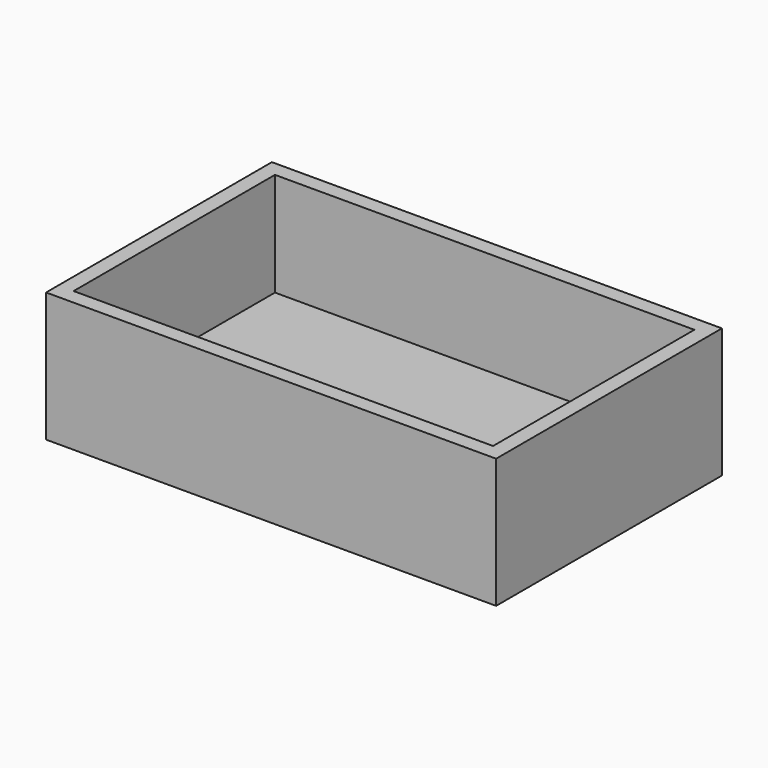
from build123d import *

# Parameters (mm, degrees)
F0_W     = 88.2246
F0_H     = 55.334776
F0_W_2   = 82.2246
F0_H_2   = 49.334776
F2_DEPTH = 25.4
F1_W     = 82.2246
F1_H     = 49.334776
F3_DEPTH = 5.08


with BuildPart() as f2:
    # F0 (on Top) → F2 (new body)
    with BuildSketch(Plane.XY):
        Rectangle(F0_W, F0_H)
        Rectangle(F0_W_2, F0_H_2, mode=Mode.SUBTRACT)
    extrude(amount=F2_DEPTH)


with BuildPart() as f3:
    # F1 (on face) → F3 (new body)
    with BuildSketch(Plane.XY):
        Rectangle(F1_W, F1_H)
    extrude(amount=F3_DEPTH)


solid = Compound([f2.part, f3.part])
